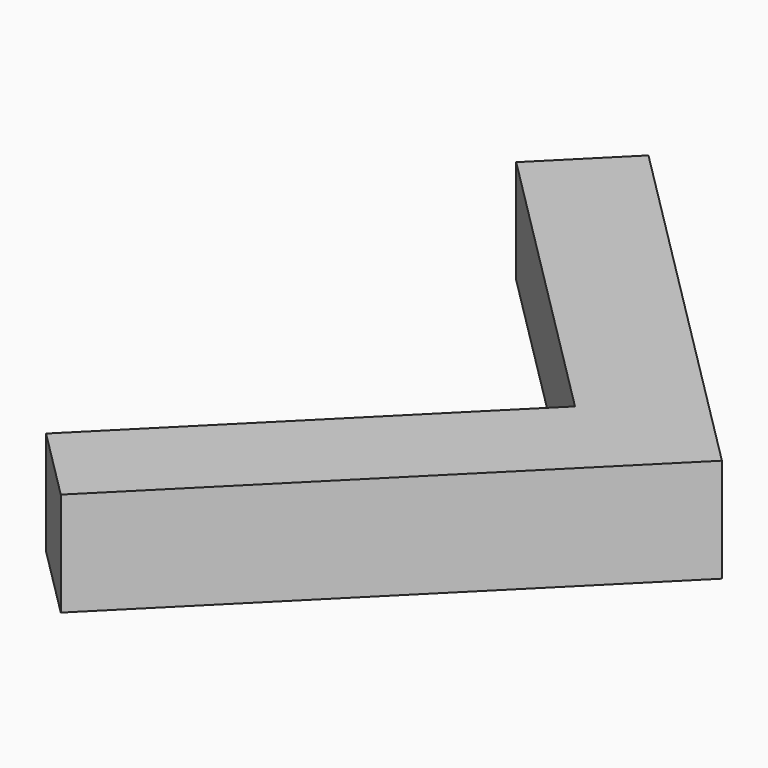
from build123d import *

# Parameters (mm, degrees)
BOX071_W               = 1
BOX071_H               = 5
BOX071_DEPTH           = 1
BOX071_PLACEMENT_ANGLE = 45
BOX074_W               = 1
BOX074_H               = 4
BOX074_DEPTH           = 1
BOX074_PLACEMENT_ANGLE = 135


with BuildPart() as cube071:
    # Box071 → Box071 (new body)
    with BuildSketch(Plane.XY):
        with Locations((0.5, 2.5)):
            Rectangle(BOX071_W, BOX071_H)
    extrude(amount=BOX071_DEPTH)


with BuildPart() as cube071_1:
    # Box071 placement: moved
    add(cube071.part.rotate(Axis((0, 0, 0), (0, 0, 1)), BOX071_PLACEMENT_ANGLE))


with BuildPart() as obj1:
    # Box074 → Box074 (new body)
    with BuildSketch(Plane.XY):
        with Locations((0.5, 2)):
            Rectangle(BOX074_W, BOX074_H)
    extrude(amount=BOX074_DEPTH)


with BuildPart() as obj1_1:
    # Box074 placement: moved
    add(obj1.part.rotate(Axis((0, 0, 0), (0, 0, 1)), BOX074_PLACEMENT_ANGLE))

    # Fusion011: union Cube071
    add(cube071_1.part)


with BuildPart() as obj1_2:
    # Fusion011 placement: moved
    add(obj1_1.part.moved(Location((16, 5, 0))))


solid = obj1_2.part
